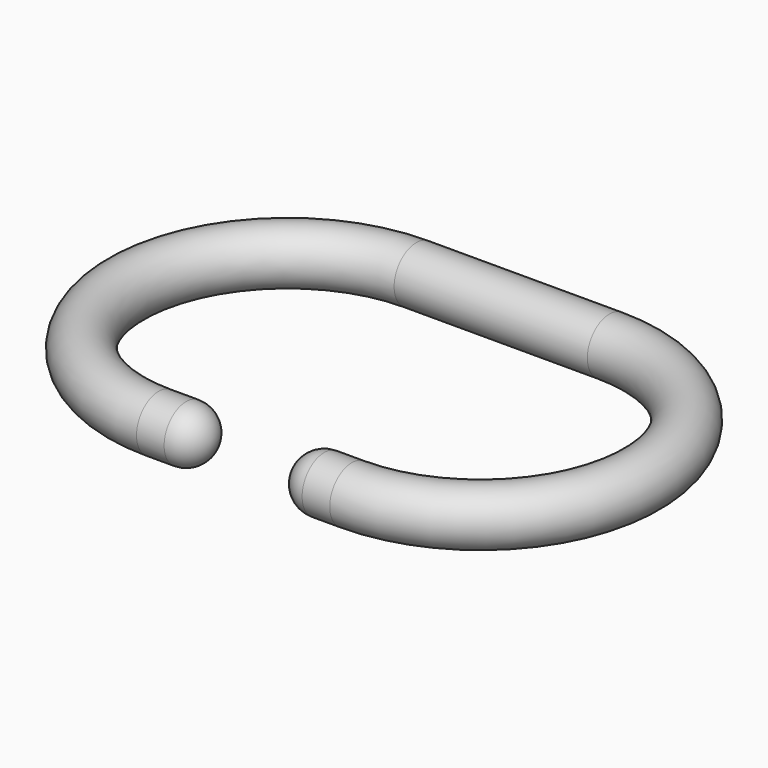
from build123d import *

# Parameters (mm, degrees)
F2_R = 3
F4_R = 3


with BuildPart() as f3:
    # F3: sweep along a path in F0
    with BuildLine(Plane.XY) as f3_path:
        Line((-4.5, -17.5), (-10.5, -17.5))
        ThreePointArc((-10.5, -17.5), (-28, 0), (-10.5, 17.5))
        Line((-10.5, 17.5), (0, 17.5))
        Line((0, 17.5), (10.5, 17.5))
        ThreePointArc((10.5, 17.5), (28, 0), (10.5, -17.5))
        Line((10.5, -17.5), (4.5, -17.5))
    # F2 (on plane+point) → F3 (sweep)
    with BuildSketch(Plane.YZ.offset(-4.5)):
        with Locations((-17.5, 0)):
            Circle(F2_R)
    sweep(path=f3_path.line)

    # F4
    f4_edges = [f3.edges().sort_by_distance(p)[0] for p in [
        (-4.5, -20.5, 0),
        (4.5, -20.5, 0),
    ]]
    fillet(f4_edges, radius=F4_R)


solid = f3.part
